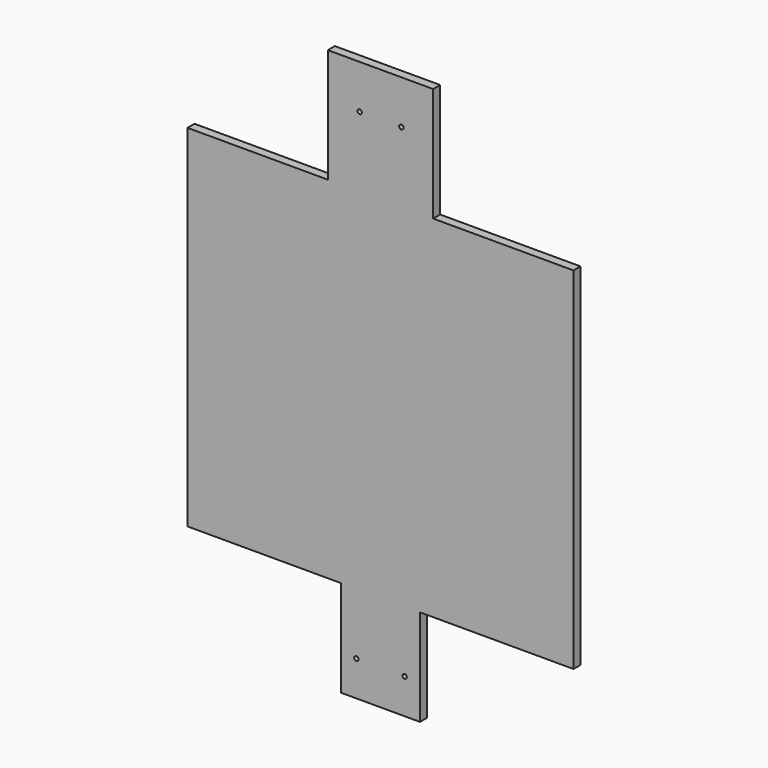
from build123d import *

# Parameters (mm, degrees)
F0_W          = 279.4
F0_H          = 6.35
F1_DEPTH      = 127
F1_DEPTH_BACK = 127
F2_W          = 76.2
F2_H          = 6.35
F3_DEPTH      = 82.55
F4_W          = 57.15
F4_H          = 6.35
F5_DEPTH      = 69.85
F6_R          = 1.5875
F7_DEPTH      = 6.351
F8_R          = 1.5875
F9_DEPTH      = 6.351


with BuildPart() as f1:
    # F0 (on Top) → F1 (new body, two sides)
    with BuildSketch(Plane.XY) as f1_sk:
        Rectangle(F0_W, F0_H)
    extrude(amount=F1_DEPTH)
    extrude(f1_sk.sketch, amount=-F1_DEPTH_BACK)

    # F0 (on Top) + F2 (on face) → F3 (join)
    with BuildSketch(Plane.XY):
        Rectangle(F0_W, F0_H)
    with BuildSketch(Plane.XY.offset(127)):
        Rectangle(F2_W, F2_H)
    extrude(amount=F3_DEPTH)

    # F4 (on face) → F5 (join)
    with BuildSketch(Plane(origin=(0, 0, -127), x_dir=(1, 0, 0), z_dir=(0, 0, -1))):
        Rectangle(F4_W, F4_H)
    extrude(amount=F5_DEPTH)

    # F6 (on face) → F7 (cut, through all)
    with BuildSketch(Plane.XZ.offset(3.175)):
        with Locations((-17.4625, -171.45)):
            Circle(F6_R)
        with Locations((17.4625, -171.45)):
            Circle(F6_R)
    extrude(amount=-F7_DEPTH, mode=Mode.SUBTRACT)

    # F8 (on face) → F9 (cut, through all)
    with BuildSketch(Plane.XZ.offset(3.175)):
        with Locations((-15.08125, 177.8)):
            Circle(F8_R)
        with Locations((15.08125, 177.8)):
            Circle(F8_R)
    extrude(amount=-F9_DEPTH, mode=Mode.SUBTRACT)


solid = f1.part
